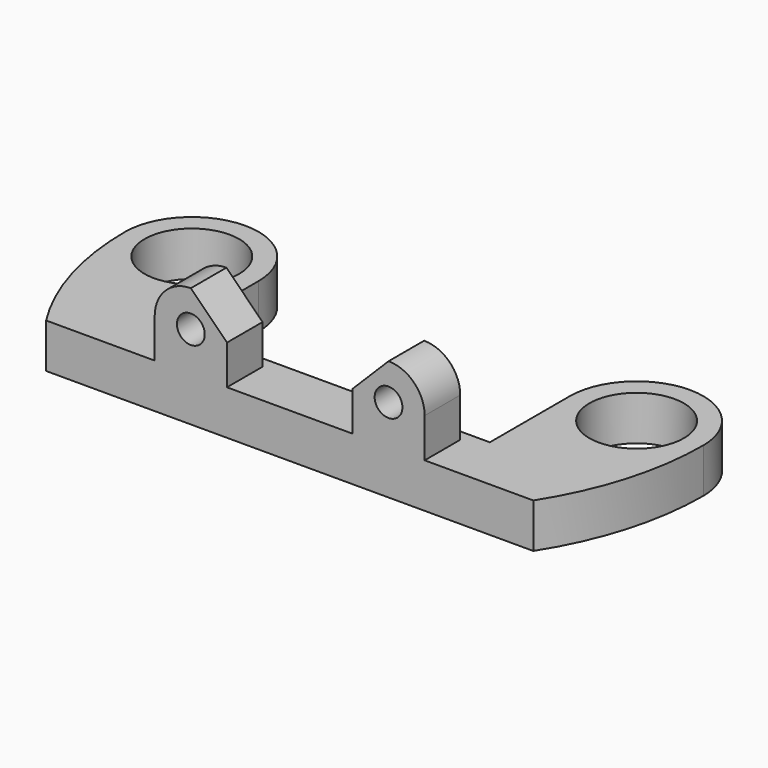
from build123d import *

# Parameters (mm, degrees)
SKETCH_R     = 4.25
PAD_DEPTH    = 4
SKETCH001_R  = 1.25
PAD001_DEPTH = 4


with BuildPart() as part:
    # Sketch → Pad (new body)
    with BuildSketch(Plane.XY):
        with BuildLine():
            ThreePointArc((-14, 14), (-20, 20), (-26, 14))
            ThreePointArc((-26, 14), (-24.956276, 6.707245), (-21.908902, 0))
            Line((-21.908902, 0), (21.908902, 0))
            ThreePointArc((21.908902, 0), (24.956276, 6.707245), (26, 14))
            ThreePointArc((26, 14), (20, 20), (14, 14))
            Line((14, 5), (14, 14))
            Line((-14, 5), (14, 5))
            Line((-14, 14), (-14, 5))
        make_face()
        with Locations((-20, 14)):
            Circle(SKETCH_R, mode=Mode.SUBTRACT)
        with Locations((20, 14)):
            Circle(SKETCH_R, mode=Mode.SUBTRACT)
    extrude(amount=PAD_DEPTH)

    # Sketch001 (on Face4 of Pad) → Pad001 (join)
    with BuildSketch(Plane.XZ):
        with BuildLine():
            Line((-5.64, 7.54), (-5.64, 3.19))
            Line((-5.64, 3.19), (5.64, 3.19))
            Line((5.64, 3.19), (5.64, 7.54))
            Line((8.89, 10.79), (5.64, 7.54))
            ThreePointArc((12.14, 7.54), (11.188097, 9.838097), (8.89, 10.79))
            Line((12.14, 7.54), (12.14, 0))
            Line((12.14, 0), (-12.14, 0))
            Line((-12.14, 0), (-12.14, 7.54))
            ThreePointArc((-8.89, 10.79), (-11.188097, 9.838097), (-12.14, 7.54))
            Line((-8.89, 10.79), (-5.64, 7.54))
        make_face()
        with Locations((-8.89, 7.54)):
            Circle(SKETCH001_R, mode=Mode.SUBTRACT)
        with Locations((8.89, 7.54)):
            Circle(SKETCH001_R, mode=Mode.SUBTRACT)
    extrude(amount=-PAD001_DEPTH)


solid = part.part
